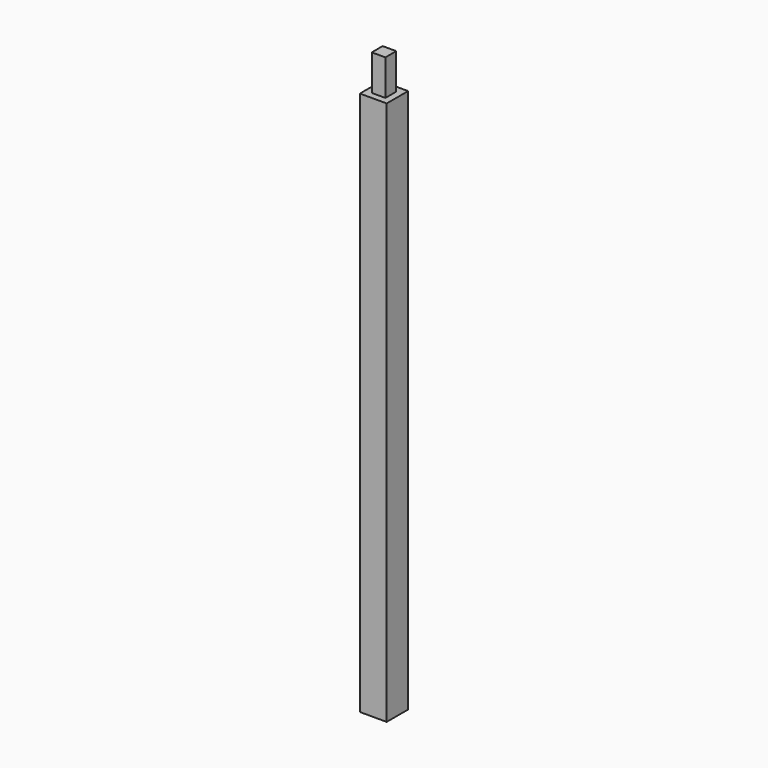
from build123d import *

# Parameters (mm, degrees)
F0_W     = 7.5
F0_H     = 7.5
F1_DEPTH = 152.4
F2_W     = 3.8
F2_H     = 3.8
F3_DEPTH = 10


with BuildPart() as f1:
    # F0 (on Top) → F1 (new body)
    with BuildSketch(Plane.XY):
        Rectangle(F0_W, F0_H)
    extrude(amount=-F1_DEPTH)

    # F2 (on face) → F3 (join)
    with BuildSketch(Plane.XY):
        Rectangle(F2_W, F2_H)
    extrude(amount=F3_DEPTH)


solid = f1.part
